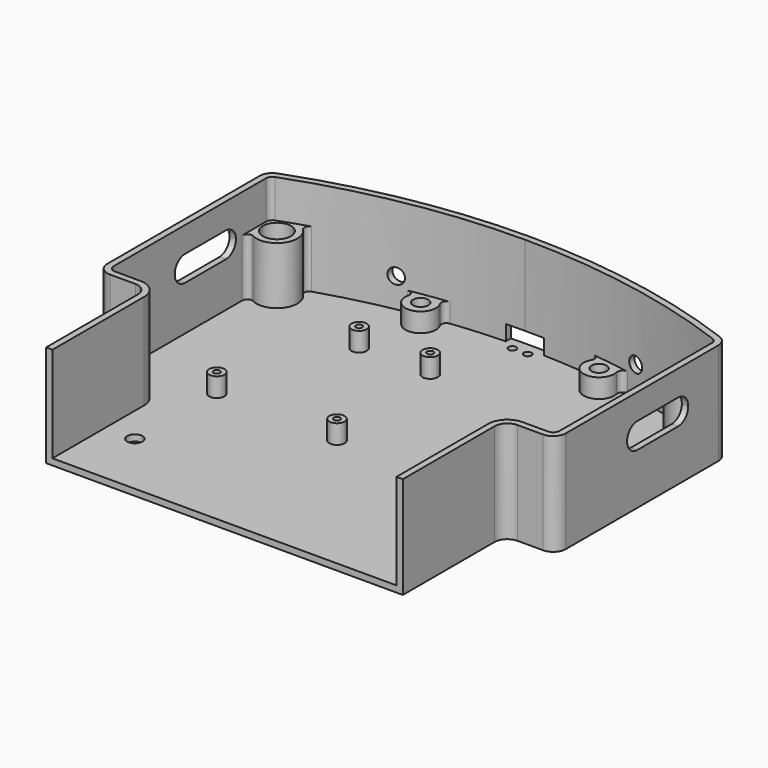
from build123d import *

# Parameters (mm, degrees)
F1_DEPTH       = 40
F2_W           = 100
F2_H           = 200
F3_DEPTH       = 100
F4_R           = 5
F5_T           = -2.5
F6_R           = 3
F7_DEPTH       = 25
F8_R           = 8
F9_DEPTH       = 25
F10_R          = 5.5
F11_DEPTH      = 25
F12_R          = 3
F12_R_2        = 1.25
F13_DEPTH      = 10
F14_R          = 3
F15_DEPTH      = 150
F17_START      = -41.94633
F16_W          = 15
F16_H          = 6
F17_DEPTH      = 208.05367
F18_R          = 1.5
F19_DEPTH      = 12.5
F20_R          = 6
F21_DEPTH      = 0.2
F21_DEPTH_BACK = 10
F22_R          = 3
F23_DEPTH      = 12.5
F24_R          = 2
F26_DEPTH      = 150


with BuildPart() as f1:
    # F0 (on Top) → F1 (new body)
    with BuildSketch(Plane.XY):
        with BuildLine():
            Line((-90, 83.2380757938), (-90, -50))
            Line((-90, -50), (90, -50))
            Line((90, -50), (90, 83.2380757938))
            ThreePointArc((90, 83.2380757938), (45.7737973711, 95.7737973711), (0, 100))
            ThreePointArc((0, 100), (-45.7737973711, 95.7737973711), (-90, 83.2380757938))
        make_face()
    extrude(amount=F1_DEPTH)

    # F2 (on Top) → F3 (cut)
    with BuildSketch(Plane.XY):
        with Locations((-120, -100)):
            Rectangle(F2_W, F2_H)
        with Locations((120, -100)):
            Rectangle(F2_W, F2_H)
    extrude(amount=F3_DEPTH, mode=Mode.SUBTRACT)

    # F4
    f4_edges = [f1.edges().sort_by_distance(p)[0] for p in [
        (-90, 83.238076, 20),
        (90, 83.238076, 20),
        (90, 0, 20),
        (70, 0, 20),
        (-90, 0, 20),
        (-70, 0, 20),
    ]]
    fillet(f4_edges, radius=F4_R)

    # F5
    f5_openings = [f1.faces().sort_by_distance(p)[0] for p in [
        (0, 26.262097, 40),
        (0, -50, 20),
    ]]
    offset(amount=F5_T, openings=f5_openings)

    # F6 (on Top) → F7 (cut)
    with BuildSketch(Plane.XY):
        with Locations((-55.8614357137, -24.1385642863)):
            Circle(F6_R)
        with Locations((55.8614357137, -24.1385642863)):
            Circle(F6_R)
    extrude(amount=F7_DEPTH, mode=Mode.SUBTRACT)

    # F8 (on Top) → F9 (join)
    with BuildSketch(Plane.XY):
        with Locations((-81, 77)):
            Circle(F8_R)
        with Locations((81, 77)):
            Circle(F8_R)
    extrude(amount=F9_DEPTH)

    # F10 (on Top) → F11 (cut)
    with BuildSketch(Plane.XY):
        with Locations((-81, 77)):
            Circle(F10_R)
        with Locations((81, 77)):
            Circle(F10_R)
    extrude(amount=F11_DEPTH, mode=Mode.SUBTRACT)

    # F12 (on Top) → F13 (join)
    with BuildSketch(Plane.XY):
        with Locations((-55, 15)):
            Circle(F12_R)
        with Locations((-55, 15)):
            Circle(F12_R_2, mode=Mode.SUBTRACT)
        with Locations((-39.8, 65.8)):
            Circle(F12_R)
        with Locations((-39.8, 65.8)):
            Circle(F12_R_2, mode=Mode.SUBTRACT)
        with Locations((-11.9, 65.8)):
            Circle(F12_R)
        with Locations((-11.9, 65.8)):
            Circle(F12_R_2, mode=Mode.SUBTRACT)
        with Locations((-6.8, 13.7)):
            Circle(F12_R)
        with Locations((-6.8, 13.7)):
            Circle(F12_R_2, mode=Mode.SUBTRACT)
    extrude(amount=F13_DEPTH)

    # F14 (on Front) → F15 (cut, symmetric)
    with BuildSketch(Plane.XZ):
        with Locations((47, 14)):
            Circle(F14_R)
        with Locations((-47, 14)):
            Circle(F14_R)
    extrude(amount=F15_DEPTH, both=True, mode=Mode.SUBTRACT)

    # F16 (on Front) → F17 (cut)
    with BuildSketch(Plane.XZ.offset(F17_START)):
        with Locations((0, 5.5)):
            Rectangle(F16_W, F16_H)
    extrude(amount=-F17_DEPTH, mode=Mode.SUBTRACT)

    # F18 (on Top) → F19 (cut, symmetric)
    with BuildSketch(Plane.XY):
        with Locations((-3, 95)):
            Circle(F18_R)
        with Locations((3, 95)):
            Circle(F18_R)
    extrude(amount=F19_DEPTH, both=True, mode=Mode.SUBTRACT)

    # F20 (on Top) → F21 (join, two sides)
    with BuildSketch(Plane.XY) as f21_sk:
        with Locations((-35, 90)):
            Circle(F20_R)
        with Locations((35, 90)):
            Circle(F20_R)
    extrude(amount=-F21_DEPTH)
    extrude(f21_sk.sketch, amount=F21_DEPTH_BACK)

    # F22 (on face) → F23 (cut, symmetric)
    with BuildSketch(Plane(origin=(0, 0, 0), x_dir=(1, 0, 0), z_dir=(0, 0, -1))):
        with Locations((-35, -90)):
            Circle(F22_R)
        with Locations((35, -90)):
            Circle(F22_R)
    extrude(amount=F23_DEPTH, both=True, mode=Mode.SUBTRACT)

    # F24
    f24_edges = [f1.edges().sort_by_distance(p)[0] for p in [
        (-87.5, 72.33631, 13.75),
        (-78.687247, 84.658405, 13.75),
        (-32.339812, 95.378048, 6.25),
        (-39.085326, 94.394328, 6.25),
        (39.085326, 94.394328, 6.25),
        (32.339812, 95.378048, 6.25),
        (78.687247, 84.658405, 13.75),
        (87.5, 72.33631, 13.75),
    ]]
    fillet(f24_edges, radius=F24_R)

    # F25 (on Right) → F26 (cut, symmetric)
    with BuildSketch(Plane.YZ):
        with BuildLine():
            Line((40, 20), (40, 30))
            ThreePointArc((40, 30), (35, 25), (40, 20))
        make_face()
        with BuildLine():
            ThreePointArc((65, 25), (63.5355339059, 28.5355339059), (60, 30))
            Line((60, 30), (60, 20))
            ThreePointArc((60, 20), (63.5355339059, 21.4644660941), (65, 25))
        make_face()
        with BuildLine():
            Line((60, 30), (40, 30))
            ThreePointArc((40, 30), (43.5355339059, 28.5355339059), (45, 25))
            ThreePointArc((45, 25), (43.5355339059, 21.4644660941), (40, 20))
            Line((40, 20), (60, 20))
            ThreePointArc((60, 20), (55, 25), (60, 30))
        make_face()
        with BuildLine():
            ThreePointArc((45, 25), (43.5355339059, 28.5355339059), (40, 30))
            Line((40, 30), (40, 20))
            ThreePointArc((40, 20), (43.5355339059, 21.4644660941), (45, 25))
        make_face()
        with BuildLine():
            Line((60, 20), (60, 30))
            ThreePointArc((60, 30), (55, 25), (60, 20))
        make_face()
    extrude(amount=F26_DEPTH, both=True, mode=Mode.SUBTRACT)


solid = f1.part
